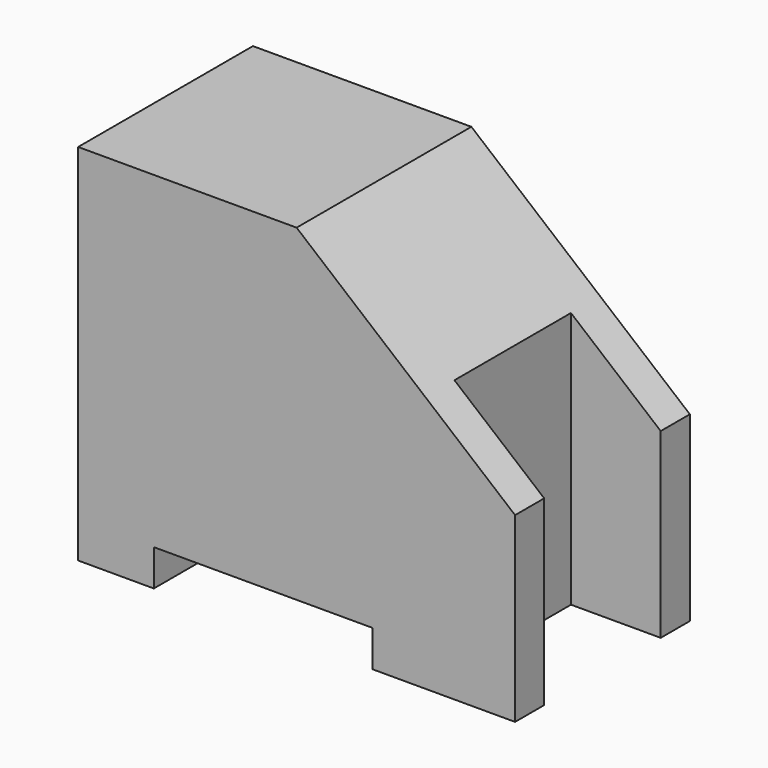
from build123d import *

# Parameters (mm, degrees)
F1_DEPTH = 25
F3_DEPTH = 25
F4_W     = 15
F4_H     = 2.5
F5_DEPTH = 25


with BuildPart() as f1:
    # F0 (on Top) → F1 (new body)
    with BuildSketch(Plane.XY):
        Polygon((0, 15), (0, 0), (30, 0), (30, 2.5), (23.83784, 2.5), (23.83784, 12.5), (30, 12.5), (30, 15), align=None)
    extrude(amount=F1_DEPTH)

    # F2 (on face) → F3 (cut)
    with BuildSketch(Plane.XZ):
        Polygon((30, 25), (15, 25), (30, 12.5), align=None)
    extrude(amount=-F3_DEPTH, mode=Mode.SUBTRACT)

    # F4 (on face) → F5 (cut)
    with BuildSketch(Plane.XZ):
        with Locations((12.69743, 1.25)):
            Rectangle(F4_W, F4_H)
    extrude(amount=-F5_DEPTH, mode=Mode.SUBTRACT)


solid = f1.part
